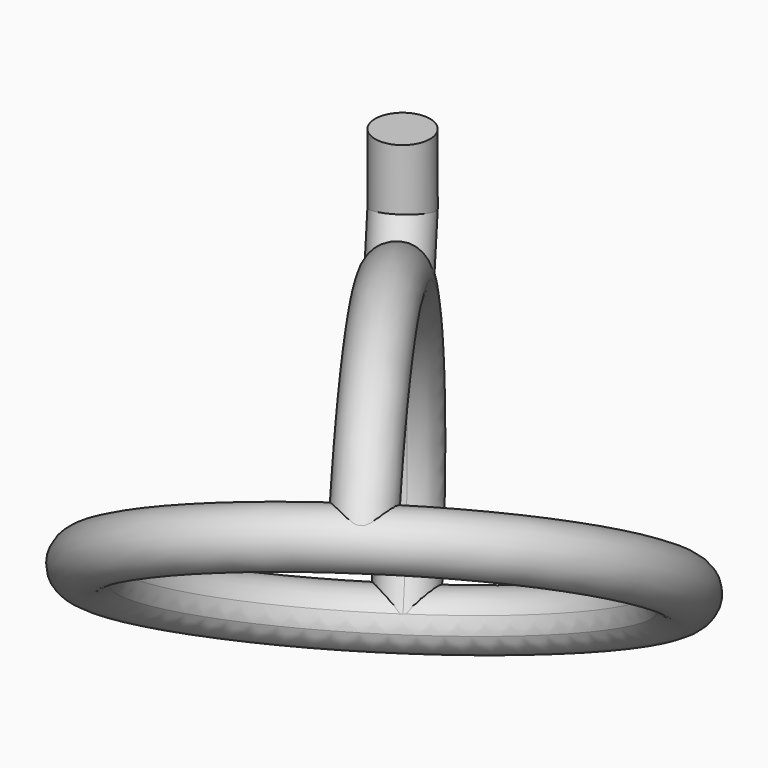
from build123d import *

# Parameters (mm, degrees)
F3_R     = 25
F7_ANGLE = 191.25
F8_ANGLE = 225


with BuildPart() as f4:
    # F4: sweep along a path in F0
    with BuildLine(Plane.XZ) as f4_path:
        Line((0, 0), (0, -63.5))
        Line((0, -63.5), (28.9665412822, -104.8685081943))
    # F3 (on Top) → F4 (sweep)
    with BuildSketch(Plane.XY):
        Circle(F3_R)
    sweep(path=f4_path.line, transition=Transition.RIGHT)


with BuildPart() as f5:
    # F5: sweep along a path in F0
    with BuildLine(Plane.XZ) as f5_path:
        ThreePointArc((329.0286556186, -157.6999922858), (28.9665412822, -104.8685081943), (-24.0153903238, -404.9040945747))
    # F2 (on face) → F5 (sweep)
    with BuildSketch(Plane(origin=(182.3418733573, 0, -260.4111829809), x_dir=(0.8191520443, 0, 0.5735764364), z_dir=(0.5735764364, 0, -0.8191520443))):
        with BuildLine():
            ThreePointArc((-250.2837609958, -24.9574575102), (-251.7416068816, 0), (-250.2991347517, 24.95835079))
            ThreePointArc((-250.2991347517, 24.95835079), (-276.7416056959, -0.0076998428), (-250.2837609958, -24.9574575102))
        make_face()
        with BuildLine():
            ThreePointArc((-226.7416068816, 0), (-233.5610980432, 17.1601019337), (-250.2991347517, 24.95835079))
            ThreePointArc((-250.2991347517, 24.95835079), (-251.7416068816, 0), (-250.2837609958, -24.9574575102))
            ThreePointArc((-250.2837609958, -24.9574575102), (-233.555813702, -17.1545016374), (-226.7416068816, 0))
        make_face()
    sweep(path=f5_path.line)


with BuildPart() as f6:
    # F6: sweep along a path in F2
    with BuildLine(Plane(origin=(182.3418733573, 0, -260.4111829809), x_dir=(0.8191520443, 0, 0.5735764364), z_dir=(0.5735764364, 0, -0.8191520443))) as f6_path:
        CenterArc((-36.2480171025, 0.0663706742), 215.4936, 0, 360)
    # F0 (on Front) → F6 (sweep)
    with BuildSketch(Plane.XZ):
        with BuildLine():
            ThreePointArc((0.9846096762, -404.9040945747), (-0.1724665551, -397.3864495871), (-3.5365892166, -390.564683666))
            Line((-3.5365892166, -390.564683666), (-24.0153903238, -404.9040945747))
            ThreePointArc((-24.0153903238, -404.9040945747), (-30.8826310352, -394.4531299469), (-37.1320864089, -383.6214189015))
            ThreePointArc((-37.1320864089, -383.6214189015), (-36.2031423289, -426.732028537), (0.9846096762, -404.9040945747))
        make_face()
        with BuildLine():
            Line((-24.0153903238, -404.9040945747), (-3.5365892166, -390.564683666))
            ThreePointArc((-3.5365892166, -390.564683666), (-18.9555109788, -380.4214962442), (-37.1320864089, -383.6214189015))
            ThreePointArc((-37.1320864089, -383.6214189015), (-30.8826310352, -394.4531299469), (-24.0153903238, -404.9040945747))
        make_face()
    sweep(path=f6_path.line)


with BuildPart() as f5_1:
    # F7: moved
    add(f5.part.rotate(Axis((0, 0, -31.75), (0, 0, -1)), F7_ANGLE))


with BuildPart() as f6_1:
    # F7: moved
    add(f6.part.rotate(Axis((0, 0, -31.75), (0, 0, -1)), F7_ANGLE))


with BuildPart() as f4_1:
    # F7: moved
    add(f4.part.rotate(Axis((0, 0, -31.75), (0, 0, -1)), F7_ANGLE))


with BuildPart() as f5_2:
    # F8: moved
    add(f5_1.part.rotate(Axis((0, 0, -31.75), (0, 0, -1)), F8_ANGLE))


with BuildPart() as f6_2:
    # F8: moved
    add(f6_1.part.rotate(Axis((0, 0, -31.75), (0, 0, -1)), F8_ANGLE))


with BuildPart() as f4_2:
    # F8: moved
    add(f4_1.part.rotate(Axis((0, 0, -31.75), (0, 0, -1)), F8_ANGLE))


solid = Compound([f5_2.part, f6_2.part, f4_2.part])
